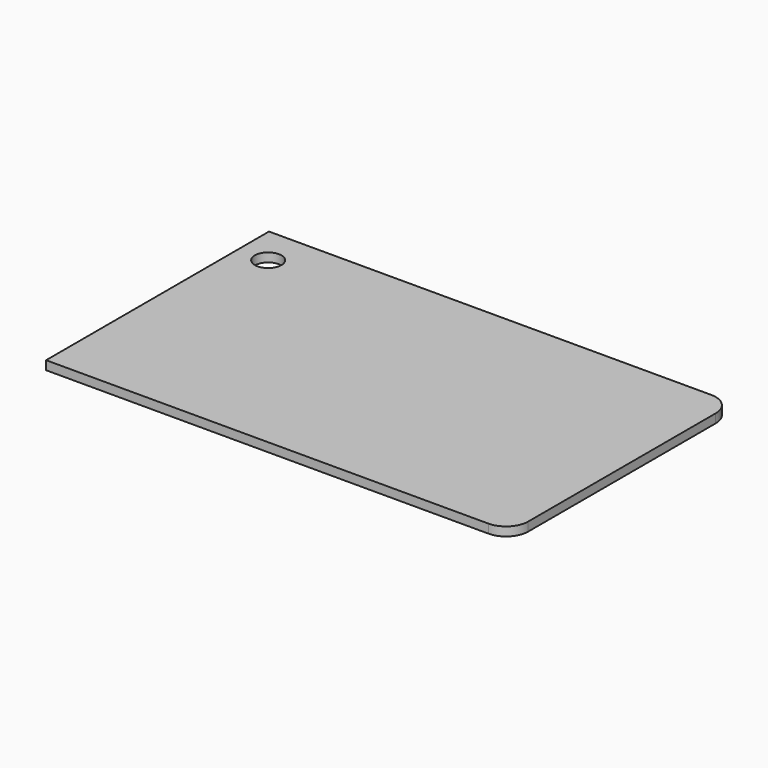
from build123d import *

# Parameters (mm, degrees)
F0_R     = 3
F1_DEPTH = 2


with BuildPart() as f1:
    # F0 (on Top) → F1 (new body)
    with BuildSketch(Plane.XY):
        with BuildLine():
            Line((56.278318, -28.426151), (56.278318, 24.573849))
            ThreePointArc((56.278318, 24.573849), (54.813852, 28.109383), (51.278318, 29.573849))
            Line((51.278318, 29.573849), (-48.721682, 29.573849))
            Line((-48.721682, 29.573849), (-48.721682, -33.426151))
            Line((-48.721682, -33.426151), (51.278318, -33.426151))
            ThreePointArc((51.278318, -33.426151), (54.813852, -31.961685), (56.278318, -28.426151))
        make_face()
        with Locations((-41.977853, 20.906148)):
            Circle(F0_R, mode=Mode.SUBTRACT)
    extrude(amount=F1_DEPTH)


solid = f1.part
